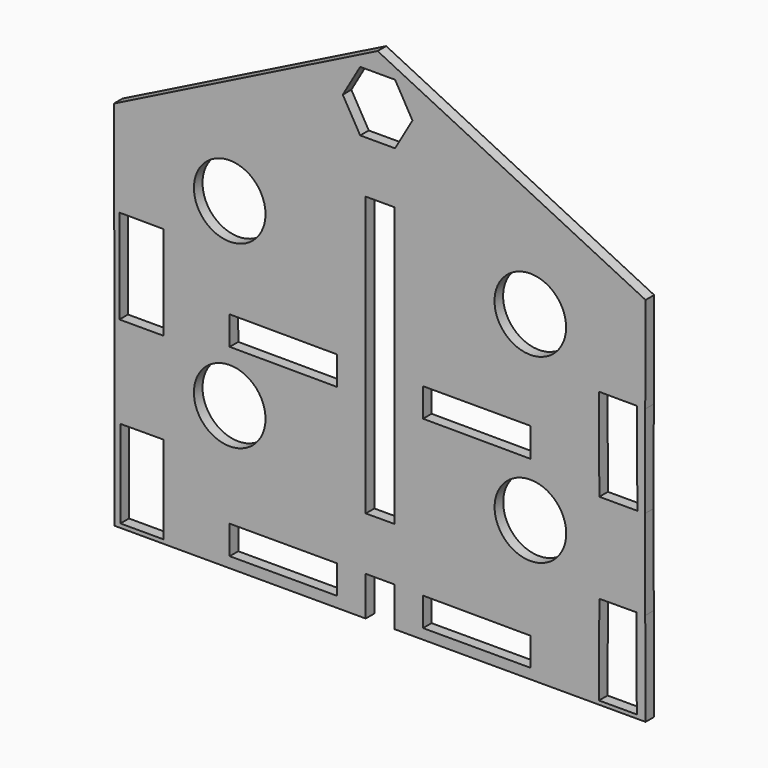
from build123d import *

# Parameters (mm, degrees)
F0_R     = 10
F0_W     = 30
F0_H     = 8
F1_DEPTH = 3
F2_DEPTH = 3
F0_W_2   = 12.0982
F0_H_2   = 1.102668
F3_DEPTH = 3


with BuildPart() as f1:
    # F0 (on Front) → F1 (new body)
    with BuildSketch(Plane.XZ):
        Polygon((0, 89.465775), (-73.68011, 52.592348), (-3.317016, 52.592348), (4.682984, 52.592348), (74.850552, 52.592348), align=None)
        Polygon((9.737339, 75.563721), (4.86867, 67.130938), (-4.86867, 67.130938), (-9.737339, 75.563721), (-4.86867, 83.996505), (4.86867, 83.996505), align=None, mode=Mode.SUBTRACT)
        Polygon((-73.68011, 52.592348), (-73.582347, 26.296174), (-72.12289, 26.290895), (-59.835819, 26.246452), (-3.317016, 26.042022), (-3.317016, 52.592348), align=None)
        with Locations((-41.317016, 39.155915)):
            Circle(F0_R, mode=Mode.SUBTRACT)
        Polygon((74.850552, 52.592348), (4.682984, 52.592348), (4.682984, 26.013086), (61.834292, 25.806368), (72.453672, 25.767957), (74.753497, 25.759638), align=None)
        with Locations((42.65259, 38.629778)):
            Circle(F0_R, mode=Mode.SUBTRACT)
        Polygon((4.682984, 26.013086), (4.682984, 0), (61.930233, 0), (61.834292, 25.806368), align=None)
        Polygon((42.682735, 3.071828), (12.682931, 3.180338), (12.682931, 11.180175), (42.65259, 11.180175), align=None, mode=Mode.SUBTRACT)
        Polygon((-59.835819, 26.246452), (-59.738242, 0), (-3.317016, 0), (-3.317016, 26.042022), align=None)
        Polygon((-11.317016, 11.180175), (-11.317016, 3.180338), (-41.31682, 3.288848), (-41.346562, 11.288793), align=None, mode=Mode.SUBTRACT)
        Polygon((-73.484585, 0), (-73.484585, -25.583768), (-71.836442, -25.577641), (-59.738242, -25.532663), (-3.317016, -25.322903), (-3.317016, 0), (-59.738242, 0), (-72.12289, 0), align=None)
        with Locations((-41.317016, -11.177788)):
            Circle(F0_R, mode=Mode.SUBTRACT)
        Polygon((4.682984, 0), (4.682984, -25.293161), (61.930233, -25.08033), (72.305258, -25.041758), (74.753389, -25.032656), (74.660324, 0), (72.549471, 0), (61.930233, 0), align=None)
        with Locations((42.682735, -12.054683)):
            Circle(F0_R, mode=Mode.SUBTRACT)
        Polygon((-59.738242, -50.064869), (-59.738242, -51.167537), (-3.317016, -51.167537), (-3.317016, -40.167537), (4.682984, -40.167537), (4.682984, -51.167537), (61.835875, -51.167537), (61.839649, -50.124135), (61.930233, -25.08033), (4.682984, -25.293161), (-3.317016, -25.322903), (-59.738242, -25.532663), align=None)
        with Locations((-26.317016, -44.189357)):
            Rectangle(F0_W, F0_H, mode=Mode.SUBTRACT)
        Polygon((12.682931, -48.311945), (12.682931, -40.311945), (42.682735, -40.420455), (42.682931, -48.311945), align=None, mode=Mode.SUBTRACT)
    extrude(amount=F1_DEPTH)

    # F0 (on Front) → F2 (join)
    with BuildSketch(Plane.XZ):
        Polygon((-73.582347, 26.296174), (-73.484585, 0), (-72.12289, 0), (-72.12289, 26.290895), align=None)
        Polygon((-73.484585, -25.583768), (-73.484585, -51.167537), (-71.836442, -51.167537), (-71.836442, -50.064869), (-71.836442, -25.577641), align=None)
        Polygon((74.660324, 0), (74.753497, 25.759638), (72.453672, 25.767957), (72.549471, 0), align=None)
        Polygon((72.398508, -50.124135), (72.402387, -51.167537), (74.850552, -51.167537), (74.753389, -25.032656), (72.305258, -25.041758), align=None)
    extrude(amount=F2_DEPTH)

    # F0 (on Front) → F3 (join)
    with BuildSketch(Plane.XZ):
        Polygon((61.839649, -50.124135), (61.835875, -51.167537), (72.402387, -51.167537), (72.398508, -50.124135), align=None)
        with Locations((-65.787342, -50.616203)):
            Rectangle(F0_W_2, F0_H_2)
    extrude(amount=F3_DEPTH)


solid = f1.part
